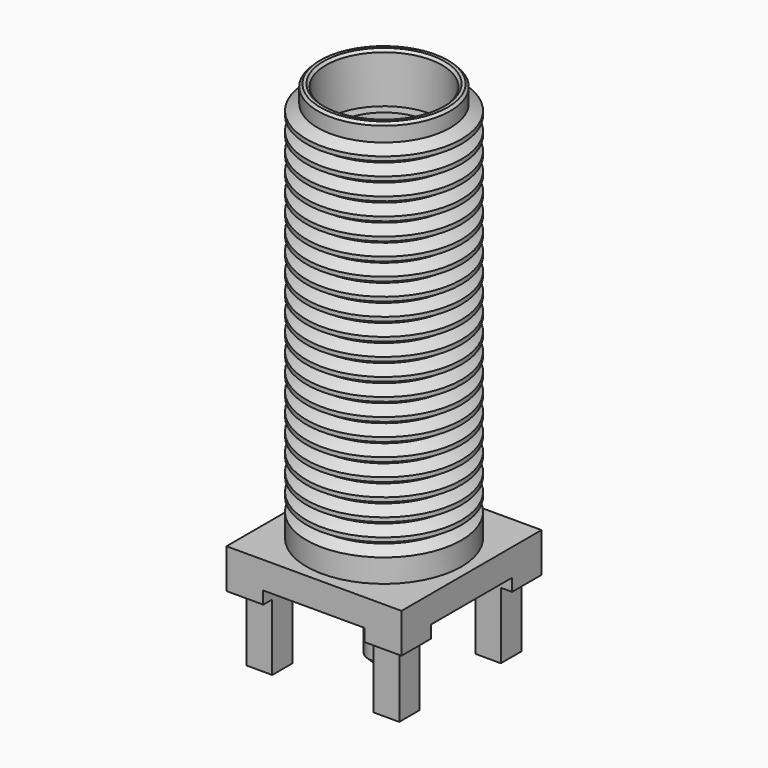
from build123d import *

# Parameters (mm, degrees)
SKETCH_W           = 7
SKETCH_H           = 7
PAD_DEPTH          = 1.58
POCKET_DEPTH       = 0.5
SKETCH002_W        = 1.02
SKETCH002_H        = 1.02
PAD001_DEPTH       = 2.66
POLARPATTERN_COUNT = 4
SKETCH003_R        = 2.03
POCKET001_DEPTH    = 0.2
SKETCH004_R        = 0.635
PAD002_DEPTH       = 3.36
CHAMFER_SIZE       = 0.2
CHAMFER001_SIZE    = 0.1
CHAMFER002_SIZE    = 0.1


with BuildPart() as part:
    # Sketch → Pad (new body)
    with BuildSketch(Plane.XY):
        Rectangle(SKETCH_W, SKETCH_H)
    extrude(amount=PAD_DEPTH)

    # Sketch001 (on Face5 of Pad) → Pocket (cut)
    with BuildSketch(Plane(origin=(0, 0, 0), x_dir=(1, 0, 0), z_dir=(0, 0, -1))):
        Polygon((-3.5, 2.03), (-2.03, 2.03), (-2.03, 3.5), (2.03, 3.5), (2.03, 2.03), (3.5, 2.03), (3.5, -2.03), (2.03, -2.03), (2.03, -3.5), (-2.03, -3.5), (-2.03, -2.03), (-3.5, -2.03), align=None)
    extrude(amount=-POCKET_DEPTH, mode=Mode.SUBTRACT)

    # Sketch002 (on Face6 of Pocket) → Pad001 (join)
    with BuildSketch(Plane(origin=(0, 0, 0), x_dir=(1, 0, 0), z_dir=(0, 0, -1))):
        with Locations((-2.54, 2.54)):
            Rectangle(SKETCH002_W, SKETCH002_H)
    pad001 = extrude(amount=PAD001_DEPTH)

    # PolarPattern: Pad001 ×4 about axis
    polarpattern_axis = Axis((0, 0, 0), (0, 0, -1))
    for i in range(1, POLARPATTERN_COUNT):
        add(pad001.rotate(polarpattern_axis, i * 360 / POLARPATTERN_COUNT))

    # Sketch003 (on Face4 of PolarPattern) → Pocket001 (cut)
    with BuildSketch(Plane(origin=(0, 0, 0.5), x_dir=(1, 0, 0), z_dir=(0, 0, -1))):
        Circle(SKETCH003_R)
    extrude(amount=-POCKET001_DEPTH, mode=Mode.SUBTRACT)

    # Sketch004 (on Face33 of Pocket001) → Pad002 (join)
    with BuildSketch(Plane(origin=(0, 0, 0.7), x_dir=(1, 0, 0), z_dir=(0, 0, -1))):
        Circle(SKETCH004_R)
    extrude(amount=PAD002_DEPTH)

    # Chamfer
    chamfer_edges = [part.edges().sort_by_distance(p)[0] for p in [
        (-0.635, 0, -2.66),
    ]]
    chamfer(chamfer_edges, length=CHAMFER_SIZE)

    # Sketch005 → Revolution (revolve)
    with BuildSketch(Plane.XZ):
        Polygon((0, 1.58), (0, 12.26), (0.48, 12.26), (0.48, 15.46), (0.63, 15.46), (0.63, 14.96), (1.9, 14.96), (1.9, 15.58), (2.325, 15.58), (2.325, 17.58), (2.65, 17.58), (2.65, 2.766921), (3.095, 2.51), (3.095, 1.58), align=None)
    revolve(axis=Axis((0, 0, 0), (0, 0, 1)))

    # Chamfer001
    chamfer001_edges = [part.edges().sort_by_distance(p)[0] for p in [
        (-2.325, 0, 17.58),
        (-2.65, 0, 17.58),
    ]]
    chamfer(chamfer001_edges, length=CHAMFER001_SIZE)

    # Chamfer002
    chamfer002_edges = [part.edges().sort_by_distance(p)[0] for p in [
        (-0.48, 0, 15.46),
    ]]
    chamfer(chamfer002_edges, length=CHAMFER002_SIZE)

    # Sketch006 → Revolution001 (revolve)
    with BuildSketch(Plane.XZ):
        Polygon((2.65, 2.791559), (3.095, 3.04848), (3.095, 3.21612), (2.65, 3.473041), align=None)
        Polygon((2.65, 3.497679), (3.095, 3.7546), (3.095, 3.92224), (2.65, 4.179161), align=None)
        Polygon((2.65, 4.203799), (3.095, 4.46072), (3.095, 4.62836), (2.65, 4.885281), align=None)
        Polygon((2.65, 4.909919), (3.095, 5.16684), (3.095, 5.33448), (2.65, 5.591401), align=None)
        Polygon((2.65, 5.616039), (3.095, 5.87296), (3.095, 6.0406), (2.65, 6.297521), align=None)
        Polygon((2.65, 6.322159), (3.095, 6.57908), (3.095, 6.74672), (2.65, 7.003641), align=None)
        Polygon((2.65, 7.734399), (3.095, 7.99132), (3.095, 8.15896), (2.65, 8.415881), align=None)
        Polygon((2.65, 7.028279), (3.095, 7.2852), (3.095, 7.45284), (2.65, 7.709761), align=None)
        Polygon((2.65, 8.440519), (3.095, 8.69744), (3.095, 8.86508), (2.65, 9.122001), align=None)
        Polygon((2.65, 9.146639), (3.095, 9.40356), (3.095, 9.5712), (2.65, 9.828121), align=None)
        Polygon((2.65, 10.558879), (3.095, 10.8158), (3.095, 10.98344), (2.65, 11.240361), align=None)
        Polygon((2.65, 9.852759), (3.095, 10.10968), (3.095, 10.27732), (2.65, 10.534241), align=None)
        Polygon((2.65, 11.971119), (3.095, 12.22804), (3.095, 12.39568), (2.65, 12.652601), align=None)
        Polygon((2.65, 11.264999), (3.095, 11.52192), (3.095, 11.68956), (2.65, 11.946481), align=None)
        Polygon((2.65, 12.677239), (3.095, 12.93416), (3.095, 13.1018), (2.65, 13.358721), align=None)
        Polygon((2.65, 13.383359), (3.095, 13.64028), (3.095, 13.80792), (2.65, 14.064841), align=None)
        Polygon((2.65, 14.089479), (3.095, 14.3464), (3.095, 14.51404), (2.65, 14.770961), align=None)
        Polygon((2.65, 15.501719), (3.095, 15.75864), (3.095, 15.92628), (2.65, 16.183201), align=None)
        Polygon((2.65, 16.207839), (3.095, 16.46476), (3.095, 16.6324), (2.65, 16.889321), align=None)
        Polygon((2.65, 14.795599), (3.095, 15.05252), (3.095, 15.22016), (2.65, 15.477081), align=None)
    revolve(axis=Axis((0, 0, 0), (0, 0, 1)))


solid = part.part
